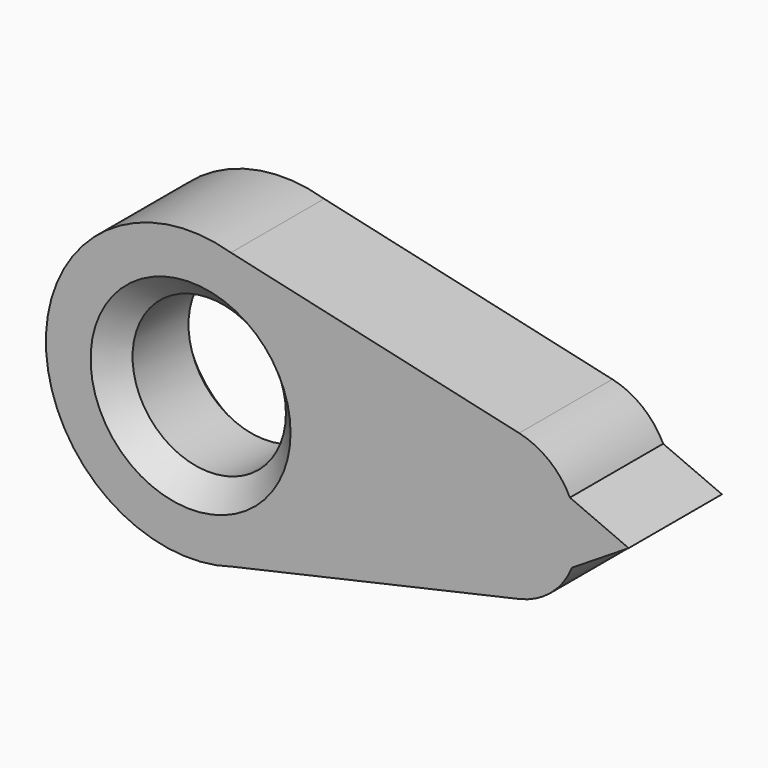
from build123d import *

# Parameters (mm, degrees)
F0_R     = 16.708359
F1_DEPTH = 25.4
F2_SIZE  = 5.08
F3_SIZE  = 5.08


with BuildPart() as f1:
    # F0 (on Front) → F1 (new body)
    with BuildSketch(Plane.XZ):
        with BuildLine():
            ThreePointArc((-24.523889, -12.243737), (-8.494482, -0.883461), (-2.350032, 17.777823))
            ThreePointArc((-2.350032, 17.777823), (-8.596971, 36.577077), (-24.852983, 47.898664))
            ThreePointArc((-24.852983, 47.898664), (-65.170116, 17.605951), (-24.523889, -12.243737))
        make_face()
        with Locations((-33.640571, 17.577954)):
            Circle(F0_R, mode=Mode.SUBTRACT)
        with BuildLine():
            ThreePointArc((-24.852983, 47.898664), (-8.596971, 36.577077), (-2.350032, 17.777823))
            ThreePointArc((-2.350032, 17.777823), (-8.494482, -0.883461), (-24.523889, -12.243737))
            Line((-24.523889, -12.243737), (37.955624, 1.879685))
            ThreePointArc((37.955624, 1.879685), (18.047037, 17.790268), (37.955624, 33.70085))
            Line((37.955624, 33.70085), (-24.852983, 47.898664))
        make_face()
        with BuildLine():
            ThreePointArc((49.022596, 24.936072), (44.486406, 30.577711), (37.955624, 33.70085))
            ThreePointArc((37.955624, 33.70085), (18.047037, 17.790268), (37.955624, 1.879685))
            ThreePointArc((37.955624, 1.879685), (44.90086, 5.342284), (49.460027, 11.622401))
            ThreePointArc((49.460027, 11.622401), (50.365449, 14.64745), (50.671074, 17.790268))
            ThreePointArc((50.671074, 17.790268), (50.253612, 21.45701), (49.022596, 24.936072))
        make_face()
        with BuildLine():
            Line((61.825909, 19.396365), (49.022596, 24.936072))
            ThreePointArc((49.022596, 24.936072), (50.253612, 21.45701), (50.671074, 17.790268))
            ThreePointArc((50.671074, 17.790268), (50.365449, 14.64745), (49.460027, 11.622401))
            Line((49.460027, 11.622401), (61.825909, 19.396365))
        make_face()
    extrude(amount=F1_DEPTH)

    # F2
    f2_edges = [f1.edges().sort_by_distance(p)[0] for p in [
        (-50.34893, -25.4, 17.577954),
    ]]
    chamfer(f2_edges, length=F2_SIZE)

    # F3
    f3_edges = [f1.edges().sort_by_distance(p)[0] for p in [
        (-50.34893, 0, 17.577954),
    ]]
    chamfer(f3_edges, length=F3_SIZE)


solid = f1.part
